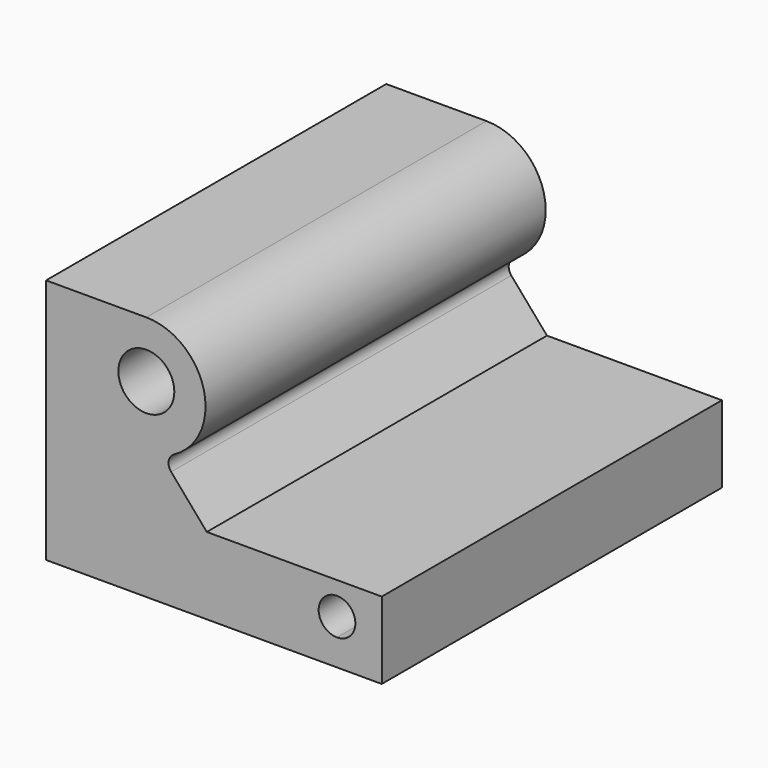
from build123d import *

# Parameters (mm, degrees)
F0_W     = 0.25
F0_H     = 2.75
F1_DEPTH = 4.75


with BuildPart() as f1:
    # F0 (on Front) → F1 (new body)
    with BuildSketch(Plane.XZ):
        with Locations((-6.931698, 4.460252)):
            Rectangle(F0_W, F0_H)
        with BuildLine():
            Line((-5.936698, 5.835252), (-6.806698, 5.835252))
            Line((-6.806698, 5.835252), (-6.806698, 3.085252))
            Line((-6.806698, 3.085252), (-4.306698, 3.085252))
            Line((-4.306698, 3.085252), (-3.806698, 3.085252))
            Line((-3.806698, 3.085252), (-3.806698, 3.380252))
            ThreePointArc((-3.806698, 3.380252), (-3.951655, 3.730209), (-3.601698, 3.585252))
            Line((-3.601698, 3.585252), (-3.306698, 3.585252))
            Line((-3.306698, 3.585252), (-3.306698, 3.944849))
            Line((-3.306698, 3.944849), (-5.26108, 3.944849))
            Line((-5.26108, 3.944849), (-5.65947, 4.406234))
            ThreePointArc((-5.65947, 4.406234), (-5.686617, 4.506619), (-5.625169, 4.590512))
            ThreePointArc((-5.625169, 4.590512), (-5.295132, 5.334467), (-5.936698, 5.835252))
        make_face()
        with BuildLine():
            ThreePointArc((-5.624198, 5.205252), (-6.157669, 4.984282), (-5.936698, 5.517752))
            ThreePointArc((-5.936698, 5.517752), (-5.715727, 5.426223), (-5.624198, 5.205252))
        make_face(mode=Mode.SUBTRACT)
        with BuildLine():
            Line((-3.806698, 3.380252), (-3.806698, 3.085252))
            Line((-3.806698, 3.085252), (-3.306698, 3.085252))
            Line((-3.306698, 3.085252), (-3.306698, 3.585252))
            Line((-3.306698, 3.585252), (-3.601698, 3.585252))
            ThreePointArc((-3.601698, 3.585252), (-3.661741, 3.440296), (-3.806698, 3.380252))
        make_face()
    extrude(amount=F1_DEPTH)


solid = f1.part
